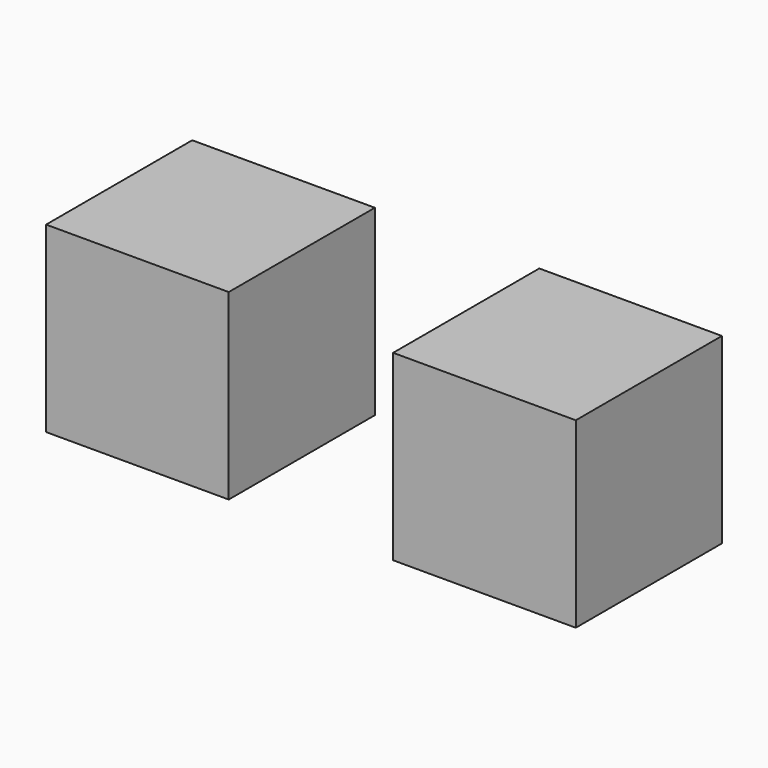
from build123d import *

# Parameters (mm, degrees)
F0_W     = 20
F0_H     = 20
F1_DEPTH = 20


with BuildPart() as f1:
    # F0 (on Top) → F1 (new body)
    with BuildSketch(Plane.XY):
        with Locations((10, -10)):
            Rectangle(F0_W, F0_H)
    extrude(amount=F1_DEPTH)


with BuildPart() as f2_1:
    # F2: copy of F1
    add(f1.part)


with BuildPart() as f2_1_1:
    # F3: moved
    add(f2_1.part.moved(Location((38, 0, 0))))


solid = Compound([f1.part, f2_1_1.part])
